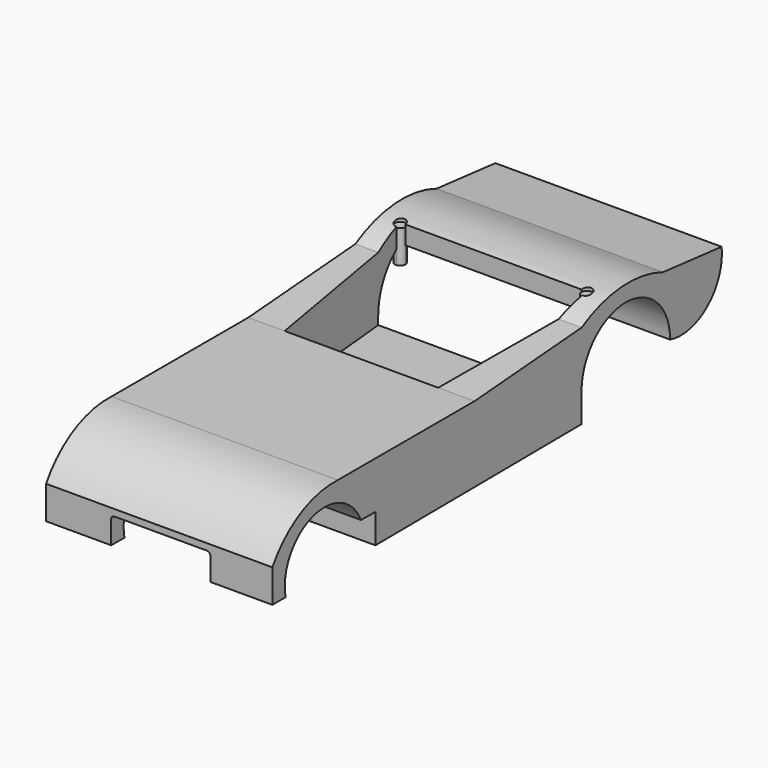
from build123d import *

# Parameters (mm, degrees)
F1_DEPTH      = 1370
F3_DEPTH      = 350
F3_DEPTH_BACK = 250
F5_DEPTH      = 500
F6_DEPTH      = 200


with BuildPart() as f1:
    # F0 (on Right) → F1 (new body)
    with BuildSketch(Plane.YZ):
        with BuildLine():
            Line((-1911.5778493881, -189.5754868984), (-1911.5778493881, -389.5754868984))
            Line((-1911.5778493881, -389.5754868984), (-1811.5778493881, -389.5754868984))
            ThreePointArc((-1811.5778493881, -389.5754868984), (-1607.4597576935, -43.2750382885), (-1241.5778493881, -209.7641527653))
            Line((-1241.5778493881, -209.7641527653), (-1131.5778493881, -211.5754868984))
            Line((-1131.5778493881, -211.5754868984), (428.375996083, -199.5754868984))
            ThreePointArc((428.375996083, -199.5754868984), (763.375996083, 135.4245131016), (1098.375996083, -199.5754868984))
            ThreePointArc((1098.375996083, -199.5754868984), (1382.8614905548, -134.9256651401), (1488.4221506119, 137.0459198952))
            Line((1488.4221506119, 137.0459198952), (1044.3756580353, 181.7956119776))
            ThreePointArc((1044.3756580353, 181.7956119776), (731.5239625306, 230.887727856), (429.0674626827, 137.0459198952))
            Line((429.0674626827, 137.0459198952), (-381.5778493881, 74.202198957))
            Line((-381.5778493881, 74.202198957), (-1416.4143651724, 74.202198957))
            ThreePointArc((-1416.4143651724, 74.202198957), (-1700.4400128393, 10.7258572479), (-1911.5778493881, -189.5754868984))
        make_face()
        Polygon((428.375996083, -199.5754868984), (-1131.5778493881, -211.5754868984), (-1131.5778493881, -389.5754868984), (428.375996083, -377.5754868984), align=None)
    extrude(amount=F1_DEPTH)

    # F2 (on Top) → F3 (cut, two sides)
    with BuildSketch(Plane.XY) as f3_sk:
        with BuildLine():
            Line((123.1592430789, 586.8297198227), (220, -381.5778493881))
            Line((220, -381.5778493881), (1150, -381.5778493881))
            Line((1150, -381.5778493881), (1246.8407569211, 586.8297198227))
            ThreePointArc((1246.8407569211, 586.8297198227), (1226.4588820597, 597.1177316777), (1218.25, 618.4221506119))
            Line((1218.25, 618.4221506119), (151.75, 618.4221506119))
            ThreePointArc((151.75, 618.4221506119), (143.5411179403, 597.1177316777), (123.1592430789, 586.8297198227))
        make_face()
        with BuildLine():
            ThreePointArc((151.75, 618.4221506119), (96.4588820597, 639.726569546), (123.1592430789, 586.8297198227))
            Line((123.1592430789, 586.8297198227), (120, 618.4221506119))
            Line((120, 618.4221506119), (151.75, 618.4221506119))
        make_face()
        with BuildLine():
            Line((120, 618.4221506119), (123.1592430789, 586.8297198227))
            ThreePointArc((123.1592430789, 586.8297198227), (143.5411179403, 597.1177316777), (151.75, 618.4221506119))
            Line((151.75, 618.4221506119), (120, 618.4221506119))
        make_face()
        with BuildLine():
            ThreePointArc((1218.25, 618.4221506119), (1226.4588820597, 597.1177316777), (1246.8407569211, 586.8297198227))
            Line((1246.8407569211, 586.8297198227), (1250, 618.4221506119))
            Line((1250, 618.4221506119), (1218.25, 618.4221506119))
        make_face()
        with BuildLine():
            Line((1250, 618.4221506119), (1246.8407569211, 586.8297198227))
            ThreePointArc((1246.8407569211, 586.8297198227), (1271.3044189342, 594.8810326716), (1281.75, 618.4221506119))
            ThreePointArc((1281.75, 618.4221506119), (1250, 650.1721506119), (1218.25, 618.4221506119))
            Line((1218.25, 618.4221506119), (1250, 618.4221506119))
        make_face()
    extrude(amount=F3_DEPTH, mode=Mode.SUBTRACT)
    extrude(f3_sk.sketch, amount=-F3_DEPTH_BACK, mode=Mode.SUBTRACT)

    # F4 (on face) → F5 (cut)
    with BuildSketch(Plane.XZ.offset(1911.5778493881)):
        with BuildLine():
            Line((394.4081366062, -249.5754868984), (394.4081366062, -389.5754868984))
            Line((394.4081366062, -389.5754868984), (994.4081366062, -389.5754868984))
            Line((994.4081366062, -389.5754868984), (994.4081366062, -249.5754868984))
            ThreePointArc((994.4081366062, -249.5754868984), (988.5502722299, -235.4333512747), (974.4081366062, -229.5754868984))
            Line((974.4081366062, -229.5754868984), (414.4081366062, -229.5754868984))
            ThreePointArc((414.4081366062, -229.5754868984), (400.2660009825, -235.4333512747), (394.4081366062, -249.5754868984))
        make_face()
    extrude(amount=-F5_DEPTH, mode=Mode.SUBTRACT)

    # F2 (on Top) → F6 (join)
    with BuildSketch(Plane.XY):
        with BuildLine():
            ThreePointArc((151.75, 618.4221506119), (96.4588820597, 639.726569546), (123.1592430789, 586.8297198227))
            Line((123.1592430789, 586.8297198227), (120, 618.4221506119))
            Line((120, 618.4221506119), (151.75, 618.4221506119))
        make_face()
        with BuildLine():
            Line((120, 618.4221506119), (123.1592430789, 586.8297198227))
            ThreePointArc((123.1592430789, 586.8297198227), (143.5411179403, 597.1177316777), (151.75, 618.4221506119))
            Line((151.75, 618.4221506119), (120, 618.4221506119))
        make_face()
        with BuildLine():
            ThreePointArc((1218.25, 618.4221506119), (1226.4588820597, 597.1177316777), (1246.8407569211, 586.8297198227))
            Line((1246.8407569211, 586.8297198227), (1250, 618.4221506119))
            Line((1250, 618.4221506119), (1218.25, 618.4221506119))
        make_face()
        with BuildLine():
            Line((1250, 618.4221506119), (1246.8407569211, 586.8297198227))
            ThreePointArc((1246.8407569211, 586.8297198227), (1271.3044189342, 594.8810326716), (1281.75, 618.4221506119))
            ThreePointArc((1281.75, 618.4221506119), (1250, 650.1721506119), (1218.25, 618.4221506119))
            Line((1218.25, 618.4221506119), (1250, 618.4221506119))
        make_face()
    extrude(amount=F6_DEPTH)


solid = f1.part
